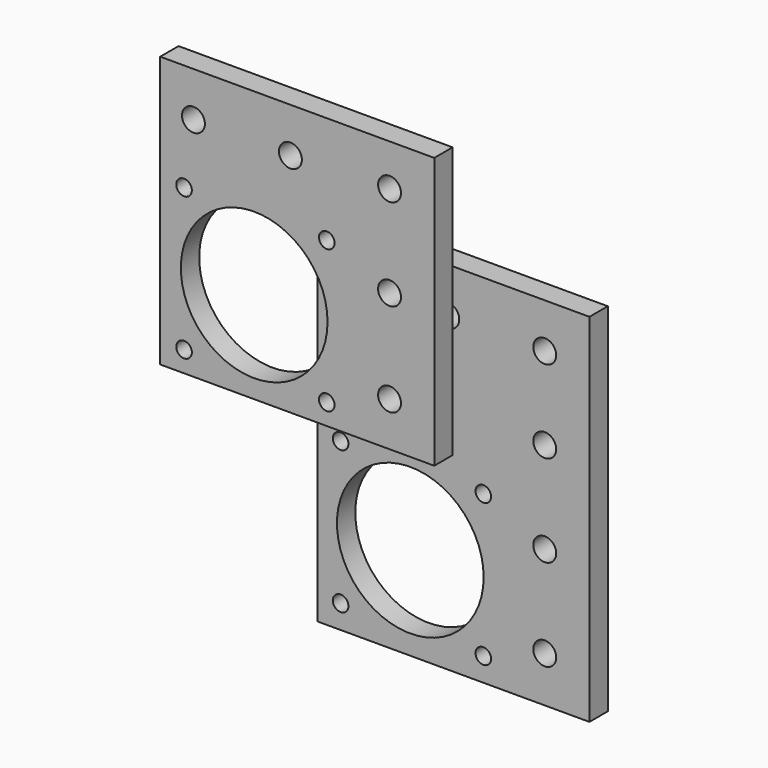
from build123d import *

# Parameters (mm, degrees)
F0_W     = 59.3
F0_H     = 77.8
F0_R     = 1.7
F0_R_2   = 16
F0_R_3   = 2.5
F1_DEPTH = 5
F2_W     = 59.78
F2_H     = 59.12
F2_R     = 1.7
F2_R_2   = 16
F2_R_3   = 2.5
F3_DEPTH = 5


with BuildPart() as f1:
    # F0 (on Front) → F1 (new body)
    with BuildSketch(Plane.XZ):
        with Locations((29.65, -38.9)):
            Rectangle(F0_W, F0_H)
        with Locations((5.02, -72.66)):
            Circle(F0_R, mode=Mode.SUBTRACT)
        with Locations((5.02, -41.53)):
            Circle(F0_R, mode=Mode.SUBTRACT)
        with Locations((20.22, -57.53)):
            Circle(F0_R_2, mode=Mode.SUBTRACT)
        with Locations((36.15, -72.66)):
            Circle(F0_R, mode=Mode.SUBTRACT)
        with Locations((49.55, -67.8)):
            Circle(F0_R_3, mode=Mode.SUBTRACT)
        with Locations((36.15, -41.53)):
            Circle(F0_R, mode=Mode.SUBTRACT)
        with Locations((49.55, -47.8)):
            Circle(F0_R_3, mode=Mode.SUBTRACT)
        with Locations((7.25, -9.75)):
            Circle(F0_R_3, mode=Mode.SUBTRACT)
        with Locations((28.4, -9.75)):
            Circle(F0_R_3, mode=Mode.SUBTRACT)
        with Locations((49.55, -27.8)):
            Circle(F0_R_3, mode=Mode.SUBTRACT)
        with Locations((49.55, -9.75)):
            Circle(F0_R_3, mode=Mode.SUBTRACT)
    extrude(amount=-F1_DEPTH)


with BuildPart() as f3:
    # F2 (on Front) → F3 (new body)
    with BuildSketch(Plane.XZ):
        with Locations((-0.444, -6.716)):
            Rectangle(F2_W, F2_H)
        with Locations((-25.134, -31.716)):
            Circle(F2_R, mode=Mode.SUBTRACT)
        with Locations((-9.834, -16.246)):
            Circle(F2_R_2, mode=Mode.SUBTRACT)
        with Locations((5.996, -31.716)):
            Circle(F2_R, mode=Mode.SUBTRACT)
        with Locations((19.696, -26.636)):
            Circle(F2_R_3, mode=Mode.SUBTRACT)
        with Locations((-25.134, -0.586)):
            Circle(F2_R, mode=Mode.SUBTRACT)
        with Locations((-23.084, 13.094)):
            Circle(F2_R_3, mode=Mode.SUBTRACT)
        with Locations((-1.934, 13.094)):
            Circle(F2_R_3, mode=Mode.SUBTRACT)
        with Locations((5.996, -0.586)):
            Circle(F2_R, mode=Mode.SUBTRACT)
        with Locations((19.696, -6.276)):
            Circle(F2_R_3, mode=Mode.SUBTRACT)
        with Locations((19.696, 13.724)):
            Circle(F2_R_3, mode=Mode.SUBTRACT)
    extrude(amount=F3_DEPTH)


solid = Compound([f1.part, f3.part])
